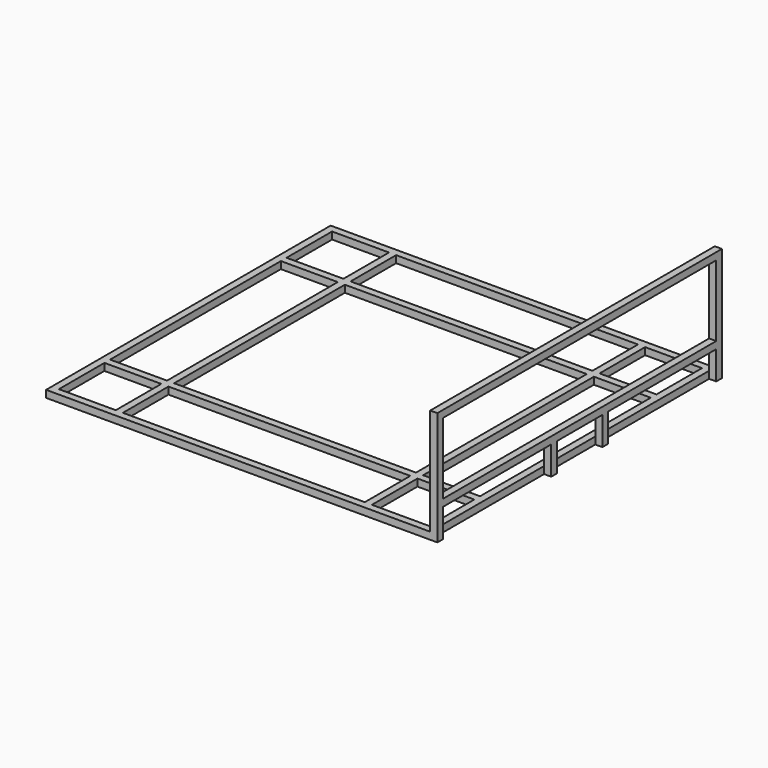
from build123d import *

# Parameters (mm, degrees)
F0_W     = 2700
F0_H     = 2500
F0_W_2   = 50
F0_H_2   = 400
F0_H_3   = 1500
F1_DEPTH = 50
F2_W     = 50
F2_H     = 50
F2_H_2   = 150
F3_DEPTH = 50


with BuildPart() as f1:
    # F0 (on Top) → F1 (new body)
    with BuildSketch(Plane.XY):
        Rectangle(F0_W, F0_H)
        Polygon((900, 1200), (1300, 1200), (1300, 800), (1300, 750), (1300, -750), (1300, -800), (1300, -1200), (900, -1200), (850, -1200), (-850, -1200), (-900, -1200), (-1300, -1200), (-1300, -800), (-1300, -750), (-1300, 750), (-1300, 800), (-1300, 1200), (-900, 1200), (-850, 1200), (850, 1200), align=None, mode=Mode.SUBTRACT)
        with Locations((-875, 1000)):
            Rectangle(F0_W_2, F0_H_2)
        Polygon((1300, 750), (1300, 800), (900, 800), (850, 800), (-850, 800), (-900, 800), (-1300, 800), (-1300, 750), (-900, 750), (-850, 750), (850, 750), (900, 750), align=None)
        with Locations((-875, 0)):
            Rectangle(F0_W_2, F0_H_3)
        with Locations((875, 1000)):
            Rectangle(F0_W_2, F0_H_2)
        Polygon((1300, -800), (1300, -750), (900, -750), (850, -750), (-850, -750), (-900, -750), (-1300, -750), (-1300, -800), (-900, -800), (-850, -800), (850, -800), (900, -800), align=None)
        with Locations((875, 0)):
            Rectangle(F0_W_2, F0_H_3)
        with Locations((875, -1000)):
            Rectangle(F0_W_2, F0_H_2)
        with Locations((-875, -1000)):
            Rectangle(F0_W_2, F0_H_2)
    extrude(amount=F1_DEPTH)

    # F2 (on face) → F3 (join)
    with BuildSketch(Plane.YZ.offset(1350)):
        with Locations((-1225, 25)):
            Rectangle(F2_W, F2_H)
        with Locations((1225, 25)):
            Rectangle(F2_W, F2_H)
        Polygon((-1250, 800), (-1250, 50), (-1200, 50), (-1200, 200), (-1200, 250), (-1200, 750), (1200, 750), (1200, 250), (1200, 200), (1200, 50), (1250, 50), (1250, 800), align=None)
        Polygon((-1200, 250), (-1200, 200), (-250, 200), (-200, 200), (200, 200), (250, 200), (1200, 200), (1200, 250), align=None)
        with Locations((-225, 125)):
            Rectangle(F2_W, F2_H_2)
        with Locations((225, 125)):
            Rectangle(F2_W, F2_H_2)
        with Locations((225, 25)):
            Rectangle(F2_W, F2_H)
        with Locations((-225, 25)):
            Rectangle(F2_W, F2_H)
    extrude(amount=F3_DEPTH)


solid = f1.part
